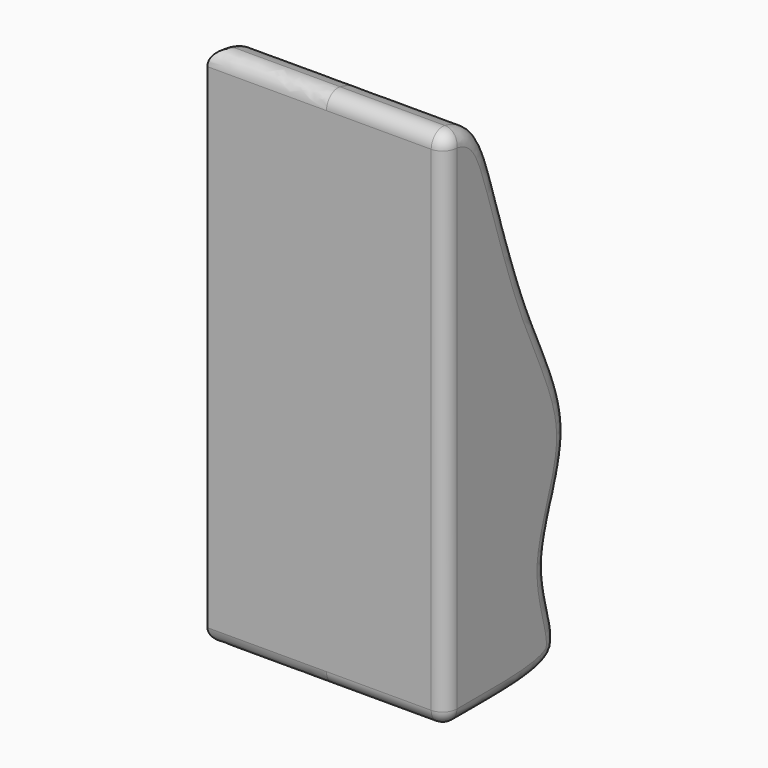
from build123d import *

# Parameters (mm, degrees)
PAD005_DEPTH = 50
FILLET079_R  = 6
FILLET080_R  = 3


with BuildPart() as part:
    # Sketch159 → Pad005 (new body, symmetric)
    with BuildSketch(Plane.YZ):
        with BuildLine():
            Line((-62, 180), (-62, -40))
            add(Edge.make_bspline(
                [(-62, -40), (-28.602824, -40), (9.375834, -41.535614), (-17.31007, 0.343139), (12.33455, 44.176135), (-17.721384, 95.58099), (-36.839079, 162.671751), (-44.692215, 180), (-62, 180)],
                knots=[0, 0, 0, 0, 0.166667, 0.333333, 0.5, 0.666667, 0.833333, 1, 1, 1, 1], degree=3))
        make_face()
    extrude(amount=PAD005_DEPTH, both=True)

    # Fillet079
    fillet079_edges = [part.edges().sort_by_distance(p)[0] for p in [
        (50, -62, 70),
        (50, 1.588759, 53.415026),
        (0, -62, 180),
        (-50, 1.588759, 53.415026),
        (0, -62, -40),
    ]]
    fillet(fillet079_edges, radius=FILLET079_R)

    # Sketch160 → Groove077 (revolve, cut)
    with BuildSketch(Plane.XY):
        with BuildLine():
            Line((0, 25), (0, -25))
            ThreePointArc((0, -25), (25, 0), (0, 25))
        make_face()
    revolve(axis=Axis((0, 0, 0), (0, 1, 0)), mode=Mode.SUBTRACT)

    # Fillet080
    fillet080_edges = [part.edges().sort_by_distance(p)[0] for p in [
        (-23.174151, -7.37844, 5.789418),
        (23.200364, -7.63595, -5.332483),
    ]]
    fillet(fillet080_edges, radius=FILLET080_R)


with BuildPart() as part_1:
    # Body048 placement: moved
    add(part.part.moved(Location((-75, 62, 28.5))))


solid = part_1.part
